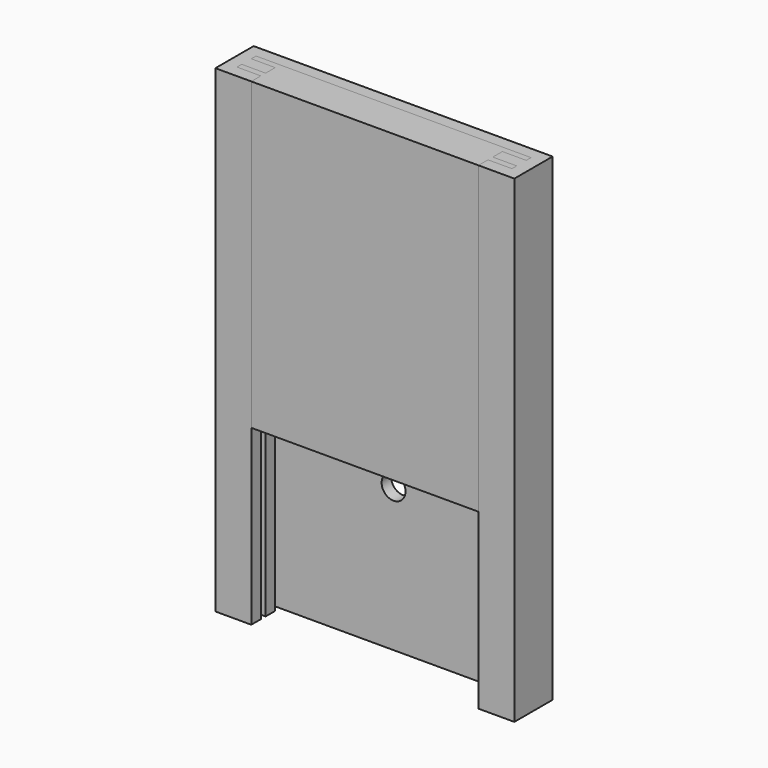
from build123d import *

# Parameters (mm, degrees)
F1_DEPTH      = 280
F1_DEPTH_BACK = 120
F2_R          = 10
F3_DEPTH      = 20
F5_DEPTH      = 255


with BuildPart() as f1:
    # F0 (on Top) → F1 (new body, two sides)
    with BuildSketch(Plane.XY) as f1_sk:
        Polygon((125, 40), (0, 40), (-125, 40), (-125, 0), (-95, 0), (-95, 10), (-115, 10), (-115, 15), (-95, 15), (-95, 25), (-115, 25), (-115, 30), (0, 30), (115, 30), (115, 25), (95, 25), (95, 15), (115, 15), (115, 10), (95, 10), (95, 0), (125, 0), align=None)
    extrude(amount=F1_DEPTH)
    extrude(f1_sk.sketch, amount=-F1_DEPTH_BACK)

    # F2 (on face) → F3 (cut)
    with BuildSketch(Plane.XZ.offset(-30)):
        Circle(F2_R)
    extrude(amount=-F3_DEPTH, mode=Mode.SUBTRACT)


with BuildPart() as f5:
    # F4 (on face) → F5 (new body)
    with BuildSketch(Plane.XY.offset(280)):
        Polygon((115, 30), (-115, 30), (-115, 25), (-95, 25), (-95, 15), (-115, 15), (-115, 10), (-95, 10), (-95, 0), (95, 0), (95, 10), (115, 10), (115, 15), (95, 15), (95, 25), (115, 25), align=None)
    extrude(amount=-F5_DEPTH)


solid = Compound([f1.part, f5.part])
